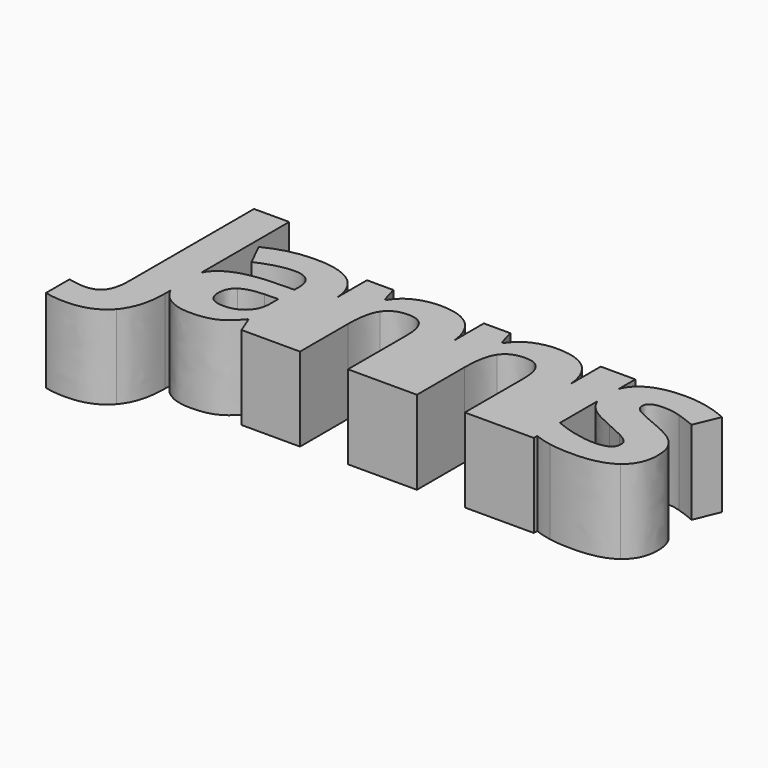
from build123d import *

# Parameters (mm, degrees)
F1_DEPTH = 10
F2_DEPTH = 25


with BuildPart() as f1:
    # F0 (on Top) → F1 (new body)
    with BuildSketch(Plane.XY):
        with BuildLine():
            add(Edge.make_bspline(
                [(-117.2144911618, 19.4218766938), (-118.6381022729, 19.4218766938), (-119.6971300507, 19.7213558604)],
                knots=[0, 0, 0, 1, 1, 1], degree=2))
            add(Edge.make_bspline(
                [(-112.5204807452, 21.2404530827), (-114.1068522729, 19.4218766938), (-117.2144911618, 19.4218766938)],
                knots=[0, 0, 0, 1, 1, 1], degree=2))
            add(Edge.make_bspline(
                [(-110.9341092174, 26.5312516938), (-110.9341092174, 23.0590294715), (-112.5204807452, 21.2404530827)],
                knots=[0, 0, 0, 1, 1, 1], degree=2))
            Line((-110.9341092174, 26.5312516938), (-110.9341092174, 27.3609548725))
            add(Edge.make_bspline(
                [(-110.9341092174, 27.3609548725), (-111.4037272729, 28.3762728694), (-111.4037272729, 29.7864600271)],
                knots=[0.3881221824, 0.3881221824, 0.3881221824, 1, 1, 1], degree=2))
            add(Edge.make_bspline(
                [(-111.4037272729, 29.7864600271), (-111.4037272729, 31.0591749799), (-110.9341092174, 31.9793745799)],
                knots=[0, 0, 0, 0.5273984265, 0.5273984265, 0.5273984265], degree=2))
            Line((-110.9341092174, 31.9793745799), (-110.9341092174, 45.0859391938))
            Line((-110.9341092174, 45.0859391938), (-115.139838384, 45.0859391938))
            Line((-115.139838384, 45.0859391938), (-115.139838384, 26.5052100271))
            add(Edge.make_bspline(
                [(-115.7366265785, 23.812067666), (-115.139838384, 24.6736128049), (-115.139838384, 26.5052100271)],
                knots=[0, 0, 0, 1, 1, 1], degree=2))
            add(Edge.make_bspline(
                [(-117.717963384, 22.9505225271), (-116.3334147729, 22.9505225271), (-115.7366265785, 23.812067666)],
                knots=[0, 0, 0, 1, 1, 1], degree=2))
            add(Edge.make_bspline(
                [(-119.6971300507, 23.2196197493), (-118.6120606063, 22.9505225271), (-117.717963384, 22.9505225271)],
                knots=[0, 0, 0, 1, 1, 1], degree=2))
            Line((-119.6971300507, 23.2196197493), (-119.6971300507, 19.7213558604))
        make_face()
        with BuildLine():
            add(Edge.make_bspline(
                [(-110.9341092174, 27.3609548725), (-111.4037272729, 28.3762728694), (-111.4037272729, 29.7864600271)],
                knots=[0.3881221824, 0.3881221824, 0.3881221824, 1, 1, 1], degree=2))
            Line((-110.9341092174, 27.3609548725), (-110.9341092174, 31.9793745799))
            add(Edge.make_bspline(
                [(-111.4037272729, 29.7864600271), (-111.4037272729, 31.0591749799), (-110.9341092174, 31.9793745799)],
                knots=[0, 0, 0, 0.5273984265, 0.5273984265, 0.5273984265], degree=2))
        make_face()
        with BuildLine():
            Line((-110.9341092174, 31.9793745799), (-110.9341092174, 27.3609548725))
            add(Edge.make_bspline(
                [(-110.1493869952, 26.2317725271), (-110.6362242812, 26.7169252551), (-110.9341092174, 27.3609548725)],
                knots=[0, 0, 0, 0.3881221824, 0.3881221824, 0.3881221824], degree=2))
            add(Edge.make_bspline(
                [(-106.7118869952, 24.9817725271), (-108.8950467174, 24.9817725271), (-110.1493869952, 26.2317725271)],
                knots=[0, 0, 0, 1, 1, 1], degree=2))
            add(Edge.make_bspline(
                [(-103.8299425507, 25.491755166), (-104.936713384, 24.9817725271), (-106.7118869952, 24.9817725271)],
                knots=[0, 0, 0, 1, 1, 1], degree=2))
            add(Edge.make_bspline(
                [(-101.6815050507, 27.3168419715), (-102.7231717174, 26.0017378049), (-103.8299425507, 25.491755166)],
                knots=[0, 0, 0, 1, 1, 1], degree=2))
            Line((-101.6815050507, 27.3168419715), (-101.5729981063, 27.3168419715))
            Line((-101.5729981063, 27.3168419715), (-100.7700467174, 25.2552100271))
            Line((-100.7700467174, 25.2552100271), (-97.9124078285, 25.2552100271))
            Line((-97.9124078285, 25.2552100271), (-97.9124078285, 36.0548004764))
            add(Edge.make_bspline(
                [(-99.5113661618, 39.4023454438), (-98.0996880883, 38.2485338983), (-97.9124078285, 36.0548004764)],
                knots=[0, 0, 0, 0.8673350084, 0.8673350084, 0.8673350084], degree=2))
            add(Edge.make_bspline(
                [(-104.1901856063, 40.7326405827), (-101.1389703285, 40.7326405827), (-99.5113661618, 39.4023454438)],
                knots=[0, 0, 0, 1, 1, 1], degree=2))
            add(Edge.make_bspline(
                [(-109.9931369952, 39.3611128049), (-107.3759494952, 40.7326405827), (-104.1901856063, 40.7326405827)],
                knots=[0, 0, 0, 1, 1, 1], degree=2))
            Line((-109.9931369952, 39.3611128049), (-108.6259494952, 36.565973916))
            add(Edge.make_bspline(
                [(-104.350775884, 37.6640641938), (-106.1693522729, 37.6640641938), (-108.6259494952, 36.565973916)],
                knots=[0, 0, 0, 1, 1, 1], degree=2))
            add(Edge.make_bspline(
                [(-101.9896647729, 35.3593766938), (-101.9896647729, 37.6640641938), (-104.350775884, 37.6640641938)],
                knots=[0, 0, 0, 1, 1, 1], degree=2))
            Line((-101.9896647729, 35.3593766938), (-101.9896647729, 34.6953141938))
            Line((-101.9896647729, 34.6953141938), (-104.624213384, 34.612848916))
            add(Edge.make_bspline(
                [(-109.7153592174, 33.3454878049), (-108.0269911618, 34.4913211382), (-104.624213384, 34.612848916)],
                knots=[0, 0, 0, 1, 1, 1], degree=2))
            add(Edge.make_bspline(
                [(-110.9341092174, 31.9793745799), (-110.5132846171, 32.8039651686), (-109.7153592174, 33.3454878049)],
                knots=[0.5273984265, 0.5273984265, 0.5273984265, 1, 1, 1], degree=2))
        make_face()
        with BuildLine():
            Line((-103.5912272729, 32.2256961382), (-101.9896647729, 32.2821197493))
            Line((-101.9896647729, 32.2821197493), (-101.9896647729, 31.0321197493))
            add(Edge.make_bspline(
                [(-102.8512099118, 28.8359391938), (-101.9896647729, 29.6649322493), (-101.9896647729, 31.0321197493)],
                knots=[0, 0, 0, 1, 1, 1], degree=2))
            add(Edge.make_bspline(
                [(-105.1537272729, 28.0069461382), (-103.7127550507, 28.0069461382), (-102.8512099118, 28.8359391938)],
                knots=[0, 0, 0, 1, 1, 1], degree=2))
            add(Edge.make_bspline(
                [(-107.1589356063, 29.7604183604), (-107.1589356063, 28.0069461382), (-105.1537272729, 28.0069461382)],
                knots=[0, 0, 0, 1, 1, 1], degree=2))
            add(Edge.make_bspline(
                [(-106.2778592174, 31.5768246104), (-107.1589356063, 30.980036416), (-107.1589356063, 29.7604183604)],
                knots=[0, 0, 0, 1, 1, 1], degree=2))
            add(Edge.make_bspline(
                [(-103.5912272729, 32.2256961382), (-105.3967828285, 32.1736128049), (-106.2778592174, 31.5768246104)],
                knots=[0, 0, 0, 1, 1, 1], degree=2))
        make_face(mode=Mode.SUBTRACT)
        with BuildLine():
            Line((-97.9124078285, 36.0548004764), (-97.9124078285, 25.2552100271))
            Line((-97.9124078285, 25.2552100271), (-97.8837619952, 25.2552100271))
            Line((-97.8837619952, 25.2552100271), (-97.8837619952, 35.3593766938))
            add(Edge.make_bspline(
                [(-97.9124078285, 36.0548004764), (-97.8837619952, 35.7192535156), (-97.8837619952, 35.3593766938)],
                knots=[0.8673350084, 0.8673350084, 0.8673350084, 1, 1, 1], degree=2))
        make_face()
        with BuildLine():
            Line((-97.8837619952, 35.3593766938), (-97.8837619952, 25.2552100271))
            Line((-97.8837619952, 25.2552100271), (-93.7761231063, 25.2552100271))
            Line((-93.7761231063, 25.2552100271), (-93.7761231063, 32.3906266938))
            add(Edge.make_bspline(
                [(-93.0035536618, 36.2361128049), (-93.7761231063, 35.0772586382), (-93.7761231063, 32.3906266938)],
                knots=[0, 0, 0, 1, 1, 1], degree=2))
            add(Edge.make_bspline(
                [(-90.4948731063, 37.3949669715), (-92.2309842174, 37.3949669715), (-93.0035536618, 36.2361128049)],
                knots=[0, 0, 0, 1, 1, 1], degree=2))
            add(Edge.make_bspline(
                [(-88.6350640785, 36.5746544715), (-89.2188314396, 37.3949669715), (-90.4948731063, 37.3949669715)],
                knots=[0, 0, 0, 1, 1, 1], degree=2))
            add(Edge.make_bspline(
                [(-88.0512967174, 34.1137169715), (-88.0512967174, 35.7543419715), (-88.6350640785, 36.5746544715)],
                knots=[0, 0, 0, 1, 1, 1], degree=2))
            Line((-88.0512967174, 34.1137169715), (-88.0512967174, 25.2552100271))
            Line((-88.0512967174, 25.2552100271), (-83.9436578285, 25.2552100271))
            Line((-83.9436578285, 25.2552100271), (-83.9436578285, 35.8967318133))
            add(Edge.make_bspline(
                [(-85.284369634, 39.2721371104), (-84.1130685292, 38.0488606793), (-83.9436578285, 35.8967318133)],
                knots=[0, 0, 0, 0.855365371, 0.855365371, 0.855365371], degree=2))
            add(Edge.make_bspline(
                [(-89.3012967174, 40.7022586382), (-86.6537272729, 40.7022586382), (-85.284369634, 39.2721371104)],
                knots=[0, 0, 0, 1, 1, 1], degree=2))
            add(Edge.make_bspline(
                [(-92.0595432452, 40.140192666), (-90.8464356063, 40.7022586382), (-89.3012967174, 40.7022586382)],
                knots=[0, 0, 0, 1, 1, 1], degree=2))
            add(Edge.make_bspline(
                [(-93.9670953285, 38.480036416), (-93.272650884, 39.5781266938), (-92.0595432452, 40.140192666)],
                knots=[0, 0, 0, 1, 1, 1], degree=2))
            Line((-93.9670953285, 38.480036416), (-94.1971300507, 38.480036416))
            Line((-94.1971300507, 38.480036416), (-94.7526856063, 40.4201405827))
            Line((-94.7526856063, 40.4201405827), (-97.9124078285, 40.4201405827))
            Line((-97.9124078285, 40.4201405827), (-97.9124078285, 36.0548004764))
            add(Edge.make_bspline(
                [(-97.9124078285, 36.0548004764), (-97.8837619952, 35.7192535156), (-97.8837619952, 35.3593766938)],
                knots=[0.8673350084, 0.8673350084, 0.8673350084, 1, 1, 1], degree=2))
        make_face()
        with BuildLine():
            Line((-83.9436578285, 35.8967318133), (-83.9436578285, 25.2552100271))
            Line((-83.9436578285, 25.2552100271), (-83.9150119952, 25.2552100271))
            Line((-83.9150119952, 25.2552100271), (-83.9150119952, 35.1423628049))
            add(Edge.make_bspline(
                [(-83.9436578285, 35.8967318133), (-83.9150119952, 35.5328260829), (-83.9150119952, 35.1423628049)],
                knots=[0.855365371, 0.855365371, 0.855365371, 1, 1, 1], degree=2))
        make_face()
        with BuildLine():
            Line((-83.9436578285, 40.4201405827), (-83.9436578285, 35.8967318133))
            add(Edge.make_bspline(
                [(-83.9436578285, 35.8967318133), (-83.9150119952, 35.5328260829), (-83.9150119952, 35.1423628049)],
                knots=[0.855365371, 0.855365371, 0.855365371, 1, 1, 1], degree=2))
            Line((-83.9150119952, 35.1423628049), (-83.9150119952, 25.2552100271))
            Line((-83.9150119952, 25.2552100271), (-79.8073731063, 25.2552100271))
            Line((-79.8073731063, 25.2552100271), (-79.8073731063, 32.3906266938))
            add(Edge.make_bspline(
                [(-79.0348036618, 36.2361128049), (-79.8073731063, 35.0772586382), (-79.8073731063, 32.3906266938)],
                knots=[0, 0, 0, 1, 1, 1], degree=2))
            add(Edge.make_bspline(
                [(-76.5261231063, 37.3949669715), (-78.2622342174, 37.3949669715), (-79.0348036618, 36.2361128049)],
                knots=[0, 0, 0, 1, 1, 1], degree=2))
            add(Edge.make_bspline(
                [(-74.6663140785, 36.5746544715), (-75.2500814396, 37.3949669715), (-76.5261231063, 37.3949669715)],
                knots=[0, 0, 0, 1, 1, 1], degree=2))
            add(Edge.make_bspline(
                [(-74.0825467174, 34.1137169715), (-74.0825467174, 35.7543419715), (-74.6663140785, 36.5746544715)],
                knots=[0, 0, 0, 1, 1, 1], degree=2))
            Line((-74.0825467174, 34.1137169715), (-74.0825467174, 25.2552100271))
            Line((-74.0825467174, 25.2552100271), (-69.9749078285, 25.2552100271))
            Line((-69.9749078285, 25.2552100271), (-69.9749078285, 35.8967318133))
            add(Edge.make_bspline(
                [(-71.315619634, 39.2721371104), (-70.1443185292, 38.0488606793), (-69.9749078285, 35.8967318133)],
                knots=[0, 0, 0, 0.855365371, 0.855365371, 0.855365371], degree=2))
            add(Edge.make_bspline(
                [(-75.3325467174, 40.7022586382), (-72.6849772729, 40.7022586382), (-71.315619634, 39.2721371104)],
                knots=[0, 0, 0, 1, 1, 1], degree=2))
            add(Edge.make_bspline(
                [(-78.0907932452, 40.140192666), (-76.8776856063, 40.7022586382), (-75.3325467174, 40.7022586382)],
                knots=[0, 0, 0, 1, 1, 1], degree=2))
            add(Edge.make_bspline(
                [(-79.9983453285, 38.480036416), (-79.303900884, 39.5781266938), (-78.0907932452, 40.140192666)],
                knots=[0, 0, 0, 1, 1, 1], degree=2))
            Line((-79.9983453285, 38.480036416), (-80.2283800507, 38.480036416))
            Line((-80.2283800507, 38.480036416), (-80.7839356063, 40.4201405827))
            Line((-80.7839356063, 40.4201405827), (-83.9436578285, 40.4201405827))
        make_face()
        with BuildLine():
            Line((-69.9749078285, 40.4201405827), (-69.9749078285, 35.8967318133))
            add(Edge.make_bspline(
                [(-69.9749078285, 35.8967318133), (-69.9462619952, 35.5328260829), (-69.9462619952, 35.1423628049)],
                knots=[0.855365371, 0.855365371, 0.855365371, 1, 1, 1], degree=2))
            Line((-69.9462619952, 35.1423628049), (-69.9462619952, 25.2552100271))
            Line((-69.9462619952, 25.2552100271), (-65.8386231063, 25.2552100271))
            Line((-65.8386231063, 25.2552100271), (-65.8386231063, 25.7716399544))
            add(Edge.make_bspline(
                [(-65.8386231063, 25.7716399544), (-65.955480884, 25.8180810503), (-66.0703939396, 25.8671891938)],
                knots=[0.8868548375, 0.8868548375, 0.8868548375, 1, 1, 1], degree=2))
            Line((-66.0703939396, 25.8671891938), (-66.0703939396, 29.2829878049))
            add(Edge.make_bspline(
                [(-66.0703939396, 29.2829878049), (-65.9559690534, 29.229013802), (-65.8386231063, 29.1767795486)],
                knots=[0, 0, 0, 0.0994848822, 0.0994848822, 0.0994848822], degree=2))
            Line((-65.8386231063, 29.1767795486), (-65.8386231063, 34.7660211695))
            add(Edge.make_bspline(
                [(-65.8386231063, 34.7660211695), (-66.0964356063, 35.4901020749), (-66.0964356063, 36.4704878049)],
                knots=[0.1664912465, 0.1664912465, 0.1664912465, 1, 1, 1], degree=2))
            add(Edge.make_bspline(
                [(-66.0964356063, 36.4704878049), (-66.0964356063, 37.2914894548), (-65.8386231063, 37.9612363371)],
                knots=[0, 0, 0, 0.4059201291, 0.4059201291, 0.4059201291], degree=2))
            Line((-65.8386231063, 37.9612363371), (-65.8386231063, 40.4201405827))
            Line((-65.8386231063, 40.4201405827), (-69.9749078285, 40.4201405827))
        make_face()
        with BuildLine():
            add(Edge.make_bspline(
                [(-69.9749078285, 35.8967318133), (-69.9462619952, 35.5328260829), (-69.9462619952, 35.1423628049)],
                knots=[0.855365371, 0.855365371, 0.855365371, 1, 1, 1], degree=2))
            Line((-69.9749078285, 35.8967318133), (-69.9749078285, 25.2552100271))
            Line((-69.9749078285, 25.2552100271), (-69.9462619952, 25.2552100271))
            Line((-69.9462619952, 25.2552100271), (-69.9462619952, 35.1423628049))
        make_face()
        with BuildLine():
            add(Edge.make_bspline(
                [(-65.8386231063, 37.9612363371), (-65.4613045015, 38.9414369058), (-64.5317654674, 39.5976579438)],
                knots=[0.4059201291, 0.4059201291, 0.4059201291, 1, 1, 1], degree=2))
            Line((-65.8386231063, 37.9612363371), (-65.8386231063, 34.7660211695))
            add(Edge.make_bspline(
                [(-65.7253418563, 34.4869808604), (-65.7871257173, 34.6213878563), (-65.8386231063, 34.7660211695)],
                knots=[0, 0, 0, 0.1664912465, 0.1664912465, 0.1664912465], degree=2))
            add(Edge.make_bspline(
                [(-64.5317654674, 33.0546891938), (-65.3542481063, 33.6796891938), (-65.7253418563, 34.4869808604)],
                knots=[0, 0, 0, 1, 1, 1], degree=2))
            add(Edge.make_bspline(
                [(-61.960150884, 31.6961822493), (-63.7092828285, 32.4296891938), (-64.5317654674, 33.0546891938)],
                knots=[0, 0, 0, 1, 1, 1], degree=2))
            add(Edge.make_bspline(
                [(-60.0091960229, 30.7977447493), (-60.7405328285, 31.1840294715), (-61.960150884, 31.6961822493)],
                knots=[0, 0, 0, 1, 1, 1], degree=2))
            add(Edge.make_bspline(
                [(-58.9783800507, 30.1054704438), (-59.2778592174, 30.4114600271), (-60.0091960229, 30.7977447493)],
                knots=[0, 0, 0, 1, 1, 1], degree=2))
            add(Edge.make_bspline(
                [(-58.678900884, 29.3090294715), (-58.678900884, 29.7994808604), (-58.9783800507, 30.1054704438)],
                knots=[0, 0, 0, 1, 1, 1], degree=2))
            add(Edge.make_bspline(
                [(-60.9315050507, 28.0069461382), (-58.678900884, 28.0069461382), (-58.678900884, 29.3090294715)],
                knots=[0, 0, 0, 1, 1, 1], degree=2))
            add(Edge.make_bspline(
                [(-63.4749078285, 28.3736996104), (-62.0295953285, 28.0069461382), (-60.9315050507, 28.0069461382)],
                knots=[0, 0, 0, 1, 1, 1], degree=2))
            add(Edge.make_bspline(
                [(-65.8386231063, 29.1767795486), (-64.7764335847, 28.7039666567), (-63.4749078285, 28.3736996104)],
                knots=[0.0994848822, 0.0994848822, 0.0994848822, 1, 1, 1], degree=2))
            Line((-65.8386231063, 29.1767795486), (-65.8386231063, 25.7716399544))
            add(Edge.make_bspline(
                [(-63.8872342174, 25.2074669715), (-64.9226680338, 25.4076251814), (-65.8386231063, 25.7716399544)],
                knots=[0, 0, 0, 0.8868548375, 0.8868548375, 0.8868548375], degree=2))
            add(Edge.make_bspline(
                [(-61.0660536618, 24.9817725271), (-62.7196994952, 24.9817725271), (-63.8872342174, 25.2074669715)],
                knots=[0, 0, 0, 1, 1, 1], degree=2))
            add(Edge.make_bspline(
                [(-56.2157932452, 26.2035607215), (-57.8368869952, 24.9817725271), (-61.0660536618, 24.9817725271)],
                knots=[0, 0, 0, 1, 1, 1], degree=2))
            add(Edge.make_bspline(
                [(-54.5946994952, 29.7604183604), (-54.5946994952, 27.425348916), (-56.2157932452, 26.2035607215)],
                knots=[0, 0, 0, 1, 1, 1], degree=2))
            add(Edge.make_bspline(
                [(-54.9896647729, 31.6983523882), (-54.5946994952, 30.8845503049), (-54.5946994952, 29.7604183604)],
                knots=[0, 0, 0, 1, 1, 1], degree=2))
            add(Edge.make_bspline(
                [(-56.2114529674, 33.1349843327), (-55.3846300507, 32.5121544715), (-54.9896647729, 31.6983523882)],
                knots=[0, 0, 0, 1, 1, 1], degree=2))
            add(Edge.make_bspline(
                [(-58.8134494952, 34.4783003049), (-57.038275884, 33.7578141938), (-56.2114529674, 33.1349843327)],
                knots=[0, 0, 0, 1, 1, 1], degree=2))
            add(Edge.make_bspline(
                [(-61.4002550507, 35.6848975271), (-60.8099772729, 35.276911416), (-58.8134494952, 34.4783003049)],
                knots=[0, 0, 0, 1, 1, 1], degree=2))
            add(Edge.make_bspline(
                [(-61.9905328285, 36.6484391938), (-61.9905328285, 36.0928836382), (-61.4002550507, 35.6848975271)],
                knots=[0, 0, 0, 1, 1, 1], degree=2))
            add(Edge.make_bspline(
                [(-60.1589356063, 37.6380225271), (-61.9905328285, 37.6380225271), (-61.9905328285, 36.6484391938)],
                knots=[0, 0, 0, 1, 1, 1], degree=2))
            add(Edge.make_bspline(
                [(-58.1363661618, 37.3255225271), (-59.1259494952, 37.6380225271), (-60.1589356063, 37.6380225271)],
                knots=[0, 0, 0, 1, 1, 1], degree=2))
            add(Edge.make_bspline(
                [(-56.0052897729, 36.526911416), (-57.1467828285, 37.0130225271), (-58.1363661618, 37.3255225271)],
                knots=[0, 0, 0, 1, 1, 1], degree=2))
            Line((-56.0052897729, 36.526911416), (-54.7596300507, 39.5086822493))
            add(Edge.make_bspline(
                [(-60.0894911618, 40.7022586382), (-57.350775884, 40.7022586382), (-54.7596300507, 39.5086822493)],
                knots=[0, 0, 0, 1, 1, 1], degree=2))
            add(Edge.make_bspline(
                [(-64.5317654674, 39.5976579438), (-62.9670953285, 40.7022586382), (-60.0894911618, 40.7022586382)],
                knots=[0, 0, 0, 1, 1, 1], degree=2))
        make_face()
        with BuildLine():
            Line((-65.8386231063, 34.7660211695), (-65.8386231063, 37.9612363371))
            add(Edge.make_bspline(
                [(-66.0964356063, 36.4704878049), (-66.0964356063, 37.2914894548), (-65.8386231063, 37.9612363371)],
                knots=[0, 0, 0, 0.4059201291, 0.4059201291, 0.4059201291], degree=2))
            add(Edge.make_bspline(
                [(-65.8386231063, 34.7660211695), (-66.0964356063, 35.4901020749), (-66.0964356063, 36.4704878049)],
                knots=[0.1664912465, 0.1664912465, 0.1664912465, 1, 1, 1], degree=2))
        make_face()
        with BuildLine():
            add(Edge.make_bspline(
                [(-65.8386231063, 25.7716399544), (-65.955480884, 25.8180810503), (-66.0703939396, 25.8671891938)],
                knots=[0.8868548375, 0.8868548375, 0.8868548375, 1, 1, 1], degree=2))
            Line((-65.8386231063, 25.7716399544), (-65.8386231063, 29.1767795486))
            add(Edge.make_bspline(
                [(-66.0703939396, 29.2829878049), (-65.9559690534, 29.229013802), (-65.8386231063, 29.1767795486)],
                knots=[0, 0, 0, 0.0994848822, 0.0994848822, 0.0994848822], degree=2))
            Line((-66.0703939396, 29.2829878049), (-66.0703939396, 25.8671891938))
        make_face()
        with BuildLine():
            add(Edge.make_bspline(
                [(-70.1528592174, 44.339411416), (-70.1528592174, 46.3619808604), (-67.9002550507, 46.3619808604)],
                knots=[0, 0, 0, 1, 1, 1], degree=2))
            add(Edge.make_bspline(
                [(-67.9002550507, 42.3038211382), (-70.1528592174, 42.3038211382), (-70.1528592174, 44.339411416)],
                knots=[0, 0, 0, 1, 1, 1], degree=2))
            add(Edge.make_bspline(
                [(-66.2097168563, 42.8398454438), (-66.7717828285, 42.3038211382), (-67.9002550507, 42.3038211382)],
                knots=[0, 0, 0, 1, 1, 1], degree=2))
            add(Edge.make_bspline(
                [(-65.647650884, 44.339411416), (-65.647650884, 43.3758697493), (-66.2097168563, 42.8398454438)],
                knots=[0, 0, 0, 1, 1, 1], degree=2))
            add(Edge.make_bspline(
                [(-67.9002550507, 46.3619808604), (-65.647650884, 46.3619808604), (-65.647650884, 44.339411416)],
                knots=[0, 0, 0, 1, 1, 1], degree=2))
        make_face()
    extrude(amount=-F1_DEPTH)

    # F2 (cut): a face of the model
    f2_faces = [f1.faces().sort_by_distance(p)[0] for p in [
        (-67.9035715208, 44.3363539575, 0),
    ]]
    extrude(f2_faces, amount=-F2_DEPTH, mode=Mode.SUBTRACT)


solid = f1.part
